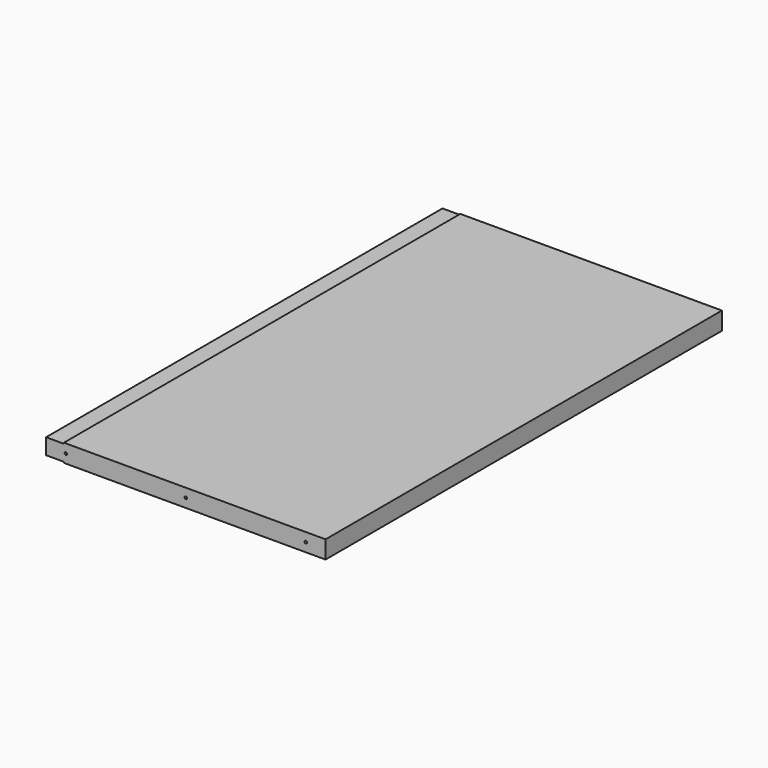
from build123d import *

# Parameters (mm, degrees)
F0_W     = 282
F0_H     = 500
F1_DEPTH = 18
F3_D     = 2.5
F3_DEPTH = 14.5
F3_TIP   = 0.7510757738
F5_D     = 2.5
F5_DEPTH = 14
F5_TIP   = 0.7510757738
F6_W     = 18
F6_H     = 1
F7_DEPTH = 500.001


with BuildPart() as f1:
    # F0 (on Top) → F1 (new body)
    with BuildSketch(Plane.XY):
        with Locations((141, -250)):
            Rectangle(F0_W, F0_H)
    extrude(amount=F1_DEPTH)

    # F3
    with Locations(Plane.XZ.offset(500)):
        with Locations((20, 9), (141, 9), (262, 9)):
            Hole(F3_D / 2, depth=F3_DEPTH)
            with Locations((0, 0, -(F3_DEPTH + F3_TIP / 2))):  # 118° drill point
                Cone(0, F3_D / 2, F3_TIP, mode=Mode.SUBTRACT)

    # F5
    with Locations(Plane(origin=(0, 0, 0), x_dir=(-1, 0, 0), z_dir=(0, 1, 0))):
        with Locations((-262, 9), (-141, 9), (-20, 9)):
            Hole(F5_D / 2, depth=F5_DEPTH)
            with Locations((0, 0, -(F5_DEPTH + F5_TIP / 2))):  # 118° drill point
                Cone(0, F5_D / 2, F5_TIP, mode=Mode.SUBTRACT)

    # F6 (on face) → F7 (cut, through all)
    with BuildSketch(Plane.XZ.offset(500)):
        with Locations((9, 17.5)):
            Rectangle(F6_W, F6_H)
        with Locations((9, 0.5)):
            Rectangle(F6_W, F6_H)
    extrude(amount=-F7_DEPTH, mode=Mode.SUBTRACT)


solid = f1.part
